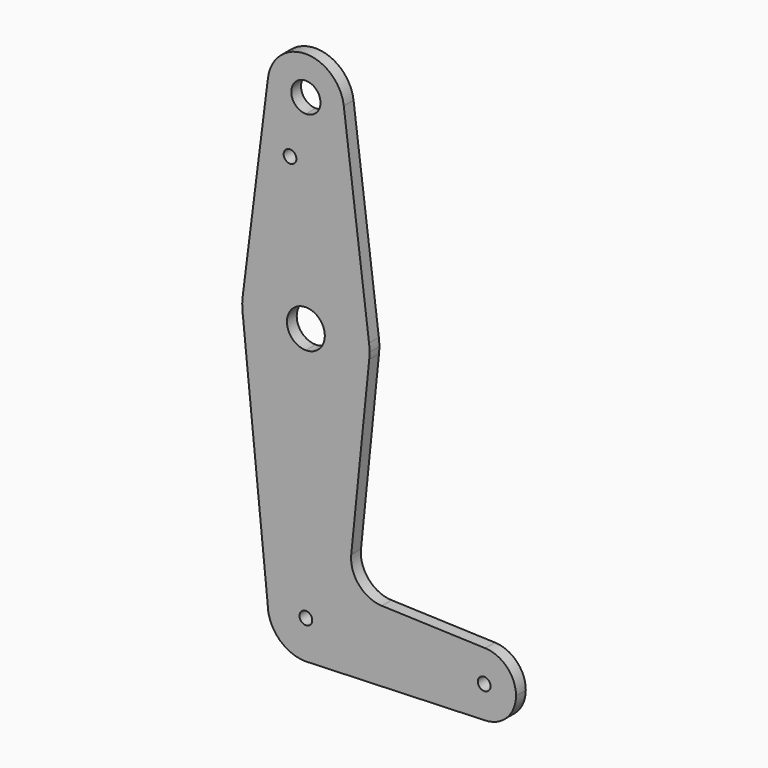
from build123d import *

# Parameters (mm, degrees)
F0_R     = 1.5875
F1_DEPTH = 3.048


with BuildPart() as f1:
    # F0 (on Front) → F1 (new body)
    with BuildSketch(Plane.XZ):
        with BuildLine():
            Line((9.525, 0), (1.5875, 0))
            ThreePointArc((1.5875, 0), (-1.1225320151, -1.1225320151), (0, 1.5875))
            Line((0, 1.5875), (0, 9.525))
            ThreePointArc((0, 9.525), (-6.7351920908, 6.7351920908), (-9.525, 0))
            ThreePointArc((-9.525, 0), (-6.7351920908, -6.7351920908), (0, -9.525))
            Line((0, -9.525), (0.6773435479, -9.500885786))
            ThreePointArc((0.6773435479, -9.500885786), (6.9705567315, -6.4912990883), (9.525, 0))
        make_face()
        with BuildLine():
            ThreePointArc((0, 9.525), (6.7351920908, 6.7351920908), (9.525, 0))
            Line((9.525, 0), (36.5125, 0))
            ThreePointArc((36.5125, 0), (38.9380895153, 5.7116327839), (44.7324052746, 7.9324746146))
            Line((44.7324052746, 7.9324746146), (18.9341027877, 8.850924033))
            ThreePointArc((18.9341027877, 8.850924033), (13.2249738114, 11.5709798305), (11.3072231466, 17.5971800924))
            Line((11.3072231466, 17.5971800924), (15.7942028036, 61.9003804205))
            ThreePointArc((15.7942028036, 61.9003804205), (10.644756084, 51.722700101), (0, 47.625))
            Line((0, 47.625), (0, 9.525))
        make_face()
        with BuildLine():
            Line((36.5125, 0), (9.525, 0))
            ThreePointArc((9.525, 0), (6.9705567315, -6.4912990883), (0.6773435479, -9.500885786))
            Line((0.6773435479, -9.500885786), (44.7324052746, -7.9324746146))
            ThreePointArc((44.7324052746, -7.9324746146), (38.9380895153, -5.7116327839), (36.5125, 0))
        make_face()
        with BuildLine():
            ThreePointArc((-9.525, 0), (-6.7351920908, 6.7351920908), (0, 9.525))
            Line((0, 9.525), (0, 47.625))
            ThreePointArc((0, 47.625), (-10.2738522904, 51.3977859829), (-15.6644232061, 60.9228949147))
            Line((-15.6644232061, 60.9228949147), (-9.525, 0))
        make_face()
        with BuildLine():
            ThreePointArc((44.7324052746, 7.9324746146), (38.9380895153, 5.7116327839), (36.5125, 0))
            ThreePointArc((36.5125, 0), (38.9380895153, -5.7116327839), (44.7324052746, -7.9324746146))
            ThreePointArc((44.7324052746, -7.9324746146), (50.1616327839, -5.5119104847), (52.3875, 0))
            ThreePointArc((52.3875, 0), (50.1616327839, 5.5119104847), (44.7324052746, 7.9324746146))
        make_face()
        with BuildLine():
            ThreePointArc((46.0375, 0), (44.45, -1.5875), (42.8625, 0))
            ThreePointArc((42.8625, 0), (44.45, 1.5875), (46.0375, 0))
        make_face(mode=Mode.SUBTRACT)
        with BuildLine():
            ThreePointArc((0, -9.525), (0.3388863295, -9.5189695375), (0.6773435479, -9.500885786))
            Line((0.6773435479, -9.500885786), (0, -9.525))
        make_face()
        with BuildLine():
            ThreePointArc((-15.6644232061, 60.9228949147), (-10.2738522904, 51.3977859829), (0, 47.625))
            Line((0, 47.625), (0, 58.7791719845))
            ThreePointArc((0, 58.7791719845), (-4.7208280155, 63.5), (0, 68.2208280155))
            Line((0, 68.2208280155), (0, 79.375))
            ThreePointArc((0, 79.375), (-10.5003255158, 75.40625), (-15.7504882737, 65.484375))
            ThreePointArc((-15.7504882737, 65.484375), (-15.8721750546, 63.2005270672), (-15.6644232061, 60.9228949147))
        make_face()
        with BuildLine():
            Line((0, 58.7791719845), (0, 47.625))
            ThreePointArc((0, 47.625), (10.644756084, 51.722700101), (15.7942028036, 61.9003804205))
            ThreePointArc((15.7942028036, 61.9003804205), (15.8547878338, 62.6991705884), (15.875, 63.5))
            ThreePointArc((15.875, 63.5), (15.8438414904, 64.4941387366), (15.7504882737, 65.484375))
            ThreePointArc((15.7504882737, 65.484375), (10.5003255158, 75.40625), (0, 79.375))
            Line((0, 79.375), (0, 68.2208280155))
            ThreePointArc((0, 68.2208280155), (3.3381295025, 66.8381295025), (4.7208280155, 63.5))
            ThreePointArc((4.7208280155, 63.5), (3.3381295025, 60.1618704975), (0, 58.7791719845))
        make_face()
        with BuildLine():
            Line((-9.4502929642, 115.490625), (-15.7504882737, 65.484375))
            ThreePointArc((-15.7504882737, 65.484375), (-10.5003255158, 75.40625), (0, 79.375))
            Line((0, 79.375), (0, 104.775))
            ThreePointArc((0, 104.775), (-7.14375, 107.9998046905), (-9.4502929642, 115.490625))
        make_face()
        with Locations((-3.9487425238, 100.0252)):
            Circle(F0_R, mode=Mode.SUBTRACT)
        with BuildLine():
            Line((0, 104.775), (0, 79.375))
            ThreePointArc((0, 79.375), (10.5003255158, 75.40625), (15.7504882737, 65.484375))
            Line((15.7504882737, 65.484375), (9.4502929642, 115.490625))
            ThreePointArc((9.4502929642, 115.490625), (9.5063048942, 114.896483242), (9.525, 114.3))
            ThreePointArc((9.525, 114.3), (6.7351920908, 107.5648079092), (0, 104.775))
        make_face()
        with BuildLine():
            ThreePointArc((9.4502929642, 115.490625), (0, 123.825), (-9.4502929642, 115.490625))
            ThreePointArc((-9.4502929642, 115.490625), (-7.14375, 107.9998046905), (0, 104.775))
            ThreePointArc((0, 104.775), (6.7351920908, 107.5648079092), (9.525, 114.3))
            ThreePointArc((9.525, 114.3), (9.5063048942, 114.896483242), (9.4502929642, 115.490625))
        make_face()
        with BuildLine():
            ThreePointArc((3.6443052149, 114.3), (2.5769129302, 111.7230870698), (0, 110.6556947851))
            ThreePointArc((0, 110.6556947851), (-2.5769129302, 116.8769129302), (3.6443052149, 114.3))
        make_face(mode=Mode.SUBTRACT)
        with BuildLine():
            ThreePointArc((0, 1.5875), (1.1225320151, 1.1225320151), (1.5875, 0))
            Line((1.5875, 0), (9.525, 0))
            ThreePointArc((9.525, 0), (6.7351920908, 6.7351920908), (0, 9.525))
            Line((0, 9.525), (0, 1.5875))
        make_face()
    extrude(amount=F1_DEPTH)


solid = f1.part
